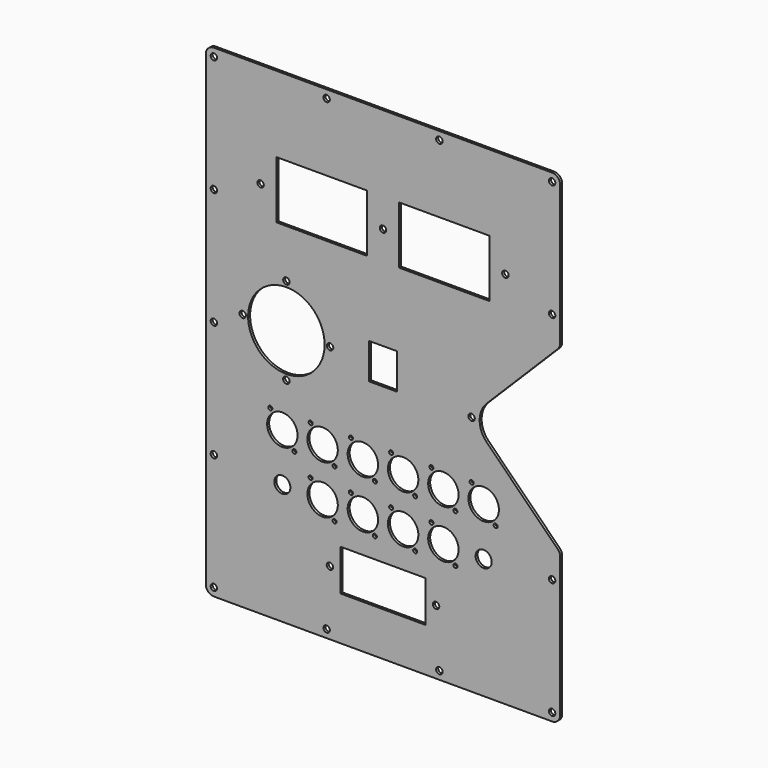
from build123d import *

# Parameters (mm, degrees)
F0_W      = 279.4
F0_H      = 381
F1_DEPTH  = 1.98374
F6_R      = 12.0015
F6_R_2    = 1.5875
F3_R      = 30.1625
F3_R_2    = 2.54
F5_W      = 71.12
F5_H      = 45.339
F5_R      = 2.54
F7_R      = 12.0015
F7_R_2    = 1.5875
F7_R_3    = 6.35
F4_W      = 22.225
F4_H      = 28.1178
F8_W      = 66.675
F8_H      = 32.512
F8_R      = 2.54
F9_DEPTH  = 25.4
F11_DEPTH = 25.4
F12_R     = 2.54
F13_DEPTH = 25.4
F14_R     = 6.35


with BuildPart() as f1:
    # F0 (on Front) → F1 (new body)
    with BuildSketch(Plane.XZ):
        Rectangle(F0_W, F0_H)
    extrude(amount=F1_DEPTH)

    # F6 (on face) + F3 (on face) + F5 (on face) + F7 (on face) + F4 (on face) + F8 (on face) → F9 (cut)
    with BuildSketch(Plane.XZ.offset(1.98374)):
        with Locations((-79.375, -57.15)):
            Circle(F6_R)
        with Locations((-88.8365, -45.1485)):
            Circle(F6_R_2)
        with Locations((-69.9135, -69.1515)):
            Circle(F6_R_2)
        with Locations((-47.625, -57.15)):
            Circle(F6_R)
        with Locations((-57.0865, -45.1485)):
            Circle(F6_R_2)
        with Locations((-38.1635, -69.1515)):
            Circle(F6_R_2)
        with Locations((-15.875, -57.15)):
            Circle(F6_R)
        with Locations((-25.3365, -45.1485)):
            Circle(F6_R_2)
        with Locations((-6.4135, -69.1515)):
            Circle(F6_R_2)
        with Locations((15.875, -57.15)):
            Circle(F6_R)
        with Locations((6.4135, -45.1485)):
            Circle(F6_R_2)
        with Locations((25.3365, -69.1515)):
            Circle(F6_R_2)
        with Locations((47.625, -57.15)):
            Circle(F6_R)
        with Locations((38.1635, -45.1485)):
            Circle(F6_R_2)
        with Locations((57.0865, -69.1515)):
            Circle(F6_R_2)
        with Locations((79.375, -57.15)):
            Circle(F6_R)
        with Locations((69.9135, -45.1485)):
            Circle(F6_R_2)
        with Locations((88.8365, -69.1515)):
            Circle(F6_R_2)
    with BuildSketch(Plane.XZ.offset(1.98374)):
        with Locations((-76.2, 12.7)):
            Circle(F3_R)
        with Locations((-76.2, 47.1551)):
            Circle(F3_R_2)
        with Locations((-41.7449, 12.7)):
            Circle(F3_R_2)
        with Locations((-76.2, -21.7551)):
            Circle(F3_R_2)
        with Locations((-110.6551, 12.7)):
            Circle(F3_R_2)
    with BuildSketch(Plane.XZ.offset(1.98374)):
        with Locations((-48.26, 107.95)):
            Rectangle(F5_W, F5_H)
        with Locations((48.26, 107.95)):
            Rectangle(F5_W, F5_H)
        with Locations((-96.52, 107.95)):
            Circle(F5_R)
        with Locations((96.52, 107.95)):
            Circle(F5_R)
        with Locations((0, 107.95)):
            Circle(F5_R)
    with BuildSketch(Plane.XZ.offset(1.98374)):
        with Locations((-47.625, -95.25)):
            Circle(F7_R)
        with Locations((-57.0865, -83.2485)):
            Circle(F7_R_2)
        with Locations((-38.1635, -107.2515)):
            Circle(F7_R_2)
        with Locations((-15.875, -95.25)):
            Circle(F7_R)
        with Locations((-25.3365, -83.2485)):
            Circle(F7_R_2)
        with Locations((-6.4135, -107.2515)):
            Circle(F7_R_2)
        with Locations((15.875, -95.25)):
            Circle(F7_R)
        with Locations((6.4135, -83.2485)):
            Circle(F7_R_2)
        with Locations((25.3365, -107.2515)):
            Circle(F7_R_2)
        with Locations((47.625, -95.25)):
            Circle(F7_R)
        with Locations((38.1635, -83.2485)):
            Circle(F7_R_2)
        with Locations((57.0865, -107.2515)):
            Circle(F7_R_2)
        with Locations((-79.375, -95.25)):
            Circle(F7_R_3)
        with Locations((79.375, -95.25)):
            Circle(F7_R_3)
    with BuildSketch(Plane.XZ.offset(1.98374)):
        with Locations((0, 12.7)):
            Rectangle(F4_W, F4_H)
    with BuildSketch(Plane.XZ.offset(1.98374)):
        with Locations((0, -139.7)):
            Rectangle(F8_W, F8_H)
        with Locations((-41.8465, -139.7)):
            Circle(F8_R)
        with Locations((41.8465, -139.7)):
            Circle(F8_R)
    extrude(amount=-F9_DEPTH, mode=Mode.SUBTRACT)

    # F10 (on face) → F11 (cut)
    with BuildSketch(Plane.XZ.offset(1.98374)):
        with BuildLine():
            Line((139.7, 71.3907683632), (81.7796158184, 13.4703841816))
            ThreePointArc((81.7796158184, 13.4703841816), (76.2, 0), (81.7796158184, -13.4703841816))
            Line((81.7796158184, -13.4703841816), (139.7, -71.3907683632))
            Line((139.7, -71.3907683632), (139.7, 71.3907683632))
        make_face()
    extrude(amount=-F11_DEPTH, mode=Mode.SUBTRACT)

    # F12 (on face) → F13 (cut)
    with BuildSketch(Plane.XZ.offset(1.98374)):
        with Locations((-133.35, 184.15)):
            Circle(F12_R)
        with Locations((133.35, 184.15)):
            Circle(F12_R)
        with Locations((133.35, 92.075)):
            Circle(F12_R)
        with Locations((133.35, -92.075)):
            Circle(F12_R)
        with Locations((133.35, -184.15)):
            Circle(F12_R)
        with Locations((-133.35, -184.15)):
            Circle(F12_R)
        with Locations((-133.35, -92.075)):
            Circle(F12_R)
        with Locations((-133.35, 92.075)):
            Circle(F12_R)
        with Locations((-133.35, 0)):
            Circle(F12_R)
        with Locations((-44.45, 184.15)):
            Circle(F12_R)
        with Locations((-44.45, -184.15)):
            Circle(F12_R)
        with Locations((44.45, 184.15)):
            Circle(F12_R)
        with Locations((44.45, -184.15)):
            Circle(F12_R)
        with Locations((69.85, 0)):
            Circle(F12_R)
    extrude(amount=-F13_DEPTH, mode=Mode.SUBTRACT)

    # F14
    f14_edges = [f1.edges().sort_by_distance(p)[0] for p in [
        (-139.7, -0.99187, 190.5),
        (139.7, -0.99187, 190.5),
        (139.7, -0.99187, 71.390768),
        (139.7, -0.99187, -71.390768),
        (139.7, -0.99187, -190.5),
        (-139.7, -0.99187, -190.5),
    ]]
    fillet(f14_edges, radius=F14_R)


solid = f1.part
